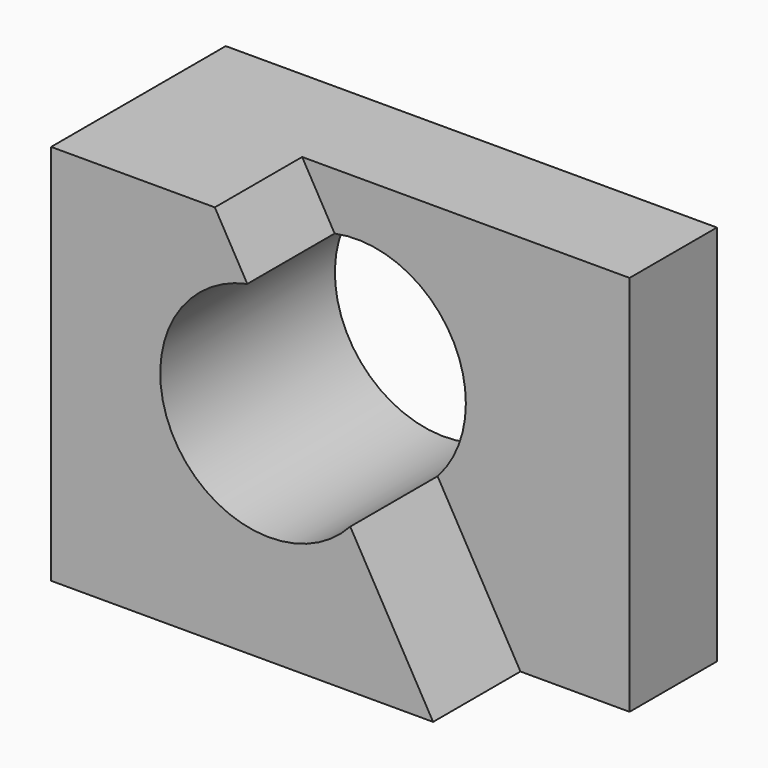
from build123d import *

# Parameters (mm, degrees)
F0_W     = 57.15
F0_H     = 44.45
F1_DEPTH = 25.4
F3_DEPTH = 12.7
F4_DEPTH = 25.4


with BuildPart() as f1:
    # F0 (on Front) → F1 (new body)
    with BuildSketch(Plane.XZ):
        with Locations((28.575, 22.225)):
            Rectangle(F0_W, F0_H)
    extrude(amount=F1_DEPTH)

    # F2 (on face) → F3 (cut)
    with BuildSketch(Plane.XZ.offset(25.4)):
        with BuildLine():
            Line((57.15, 44.45), (19.05, 44.45))
            Line((19.05, 44.45), (22.8288518953, 37.8370091832))
            ThreePointArc((22.8288518953, 37.8370091832), (33.4198634362, 35.2474255755), (38.1, 25.4))
            ThreePointArc((38.1, 25.4), (37.2488826998, 20.8290068075), (34.8096096432, 16.8706831245))
            Line((34.8096096432, 16.8706831245), (44.45, 0))
            Line((44.45, 0), (57.15, 0))
            Line((57.15, 0), (57.15, 44.45))
        make_face()
    extrude(amount=-F3_DEPTH, mode=Mode.SUBTRACT)

    # F2 (on face) → F4 (cut)
    with BuildSketch(Plane.XZ.offset(25.4)):
        with BuildLine():
            Line((34.8096096432, 16.8706831245), (22.8288518953, 37.8370091832))
            ThreePointArc((22.8288518953, 37.8370091832), (14.373312095, 19.0990354829), (34.8096096432, 16.8706831245))
        make_face()
        with BuildLine():
            ThreePointArc((38.1, 25.4), (33.4198634362, 35.2474255755), (22.8288518953, 37.8370091832))
            Line((22.8288518953, 37.8370091832), (34.8096096432, 16.8706831245))
            ThreePointArc((34.8096096432, 16.8706831245), (37.2488826998, 20.8290068075), (38.1, 25.4))
        make_face()
    extrude(amount=-F4_DEPTH, mode=Mode.SUBTRACT)


solid = f1.part
